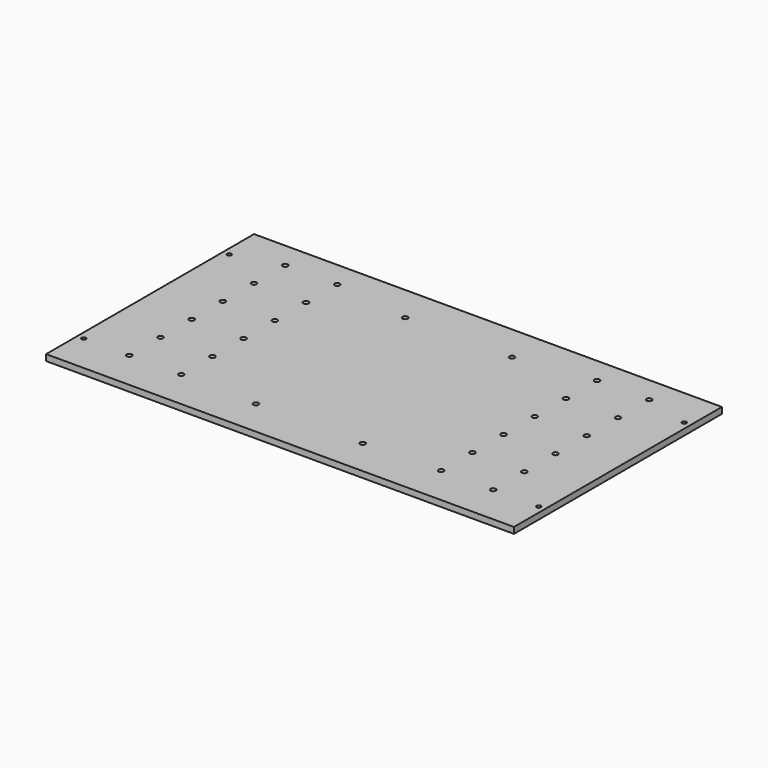
from build123d import *

# Parameters (mm, degrees)
F0_W     = 457.2
F0_H     = 254
F0_R     = 2.0701
F0_R_2   = 2.5527
F1_DEPTH = 6


with BuildPart() as f1:
    # F0 (on Top) → F1 (new body)
    with BuildSketch(Plane.XY):
        Rectangle(F0_W, F0_H)
        with Locations((-222.25, -88.9)):
            Circle(F0_R, mode=Mode.SUBTRACT)
        with Locations((-177.8, -88.9)):
            Circle(F0_R_2, mode=Mode.SUBTRACT)
        with Locations((-127, -88.9)):
            Circle(F0_R_2, mode=Mode.SUBTRACT)
        with Locations((-52.197, -91.1352)):
            Circle(F0_R_2, mode=Mode.SUBTRACT)
        with Locations((-177.8, -50.8)):
            Circle(F0_R_2, mode=Mode.SUBTRACT)
        with Locations((-127, -50.8)):
            Circle(F0_R_2, mode=Mode.SUBTRACT)
        with Locations((-177.8, -12.7)):
            Circle(F0_R_2, mode=Mode.SUBTRACT)
        with Locations((-127, -12.7)):
            Circle(F0_R_2, mode=Mode.SUBTRACT)
        with Locations((52.197, -91.1352)):
            Circle(F0_R_2, mode=Mode.SUBTRACT)
        with Locations((127, -88.9)):
            Circle(F0_R_2, mode=Mode.SUBTRACT)
        with Locations((177.8, -88.9)):
            Circle(F0_R_2, mode=Mode.SUBTRACT)
        with Locations((222.25, -88.9)):
            Circle(F0_R, mode=Mode.SUBTRACT)
        with Locations((127, -50.8)):
            Circle(F0_R_2, mode=Mode.SUBTRACT)
        with Locations((177.8, -50.8)):
            Circle(F0_R_2, mode=Mode.SUBTRACT)
        with Locations((127, -12.7)):
            Circle(F0_R_2, mode=Mode.SUBTRACT)
        with Locations((177.8, -12.7)):
            Circle(F0_R_2, mode=Mode.SUBTRACT)
        with Locations((-177.8, 25.4)):
            Circle(F0_R_2, mode=Mode.SUBTRACT)
        with Locations((-127, 25.4)):
            Circle(F0_R_2, mode=Mode.SUBTRACT)
        with Locations((-177.8, 63.5)):
            Circle(F0_R_2, mode=Mode.SUBTRACT)
        with Locations((-222.25, 88.9)):
            Circle(F0_R, mode=Mode.SUBTRACT)
        with Locations((-127, 63.5)):
            Circle(F0_R_2, mode=Mode.SUBTRACT)
        with Locations((-177.8, 101.6)):
            Circle(F0_R_2, mode=Mode.SUBTRACT)
        with Locations((-127, 101.6)):
            Circle(F0_R_2, mode=Mode.SUBTRACT)
        with Locations((-52.197, 91.1352)):
            Circle(F0_R_2, mode=Mode.SUBTRACT)
        with Locations((127, 25.4)):
            Circle(F0_R_2, mode=Mode.SUBTRACT)
        with Locations((177.8, 25.4)):
            Circle(F0_R_2, mode=Mode.SUBTRACT)
        with Locations((52.197, 91.1352)):
            Circle(F0_R_2, mode=Mode.SUBTRACT)
        with Locations((127, 63.5)):
            Circle(F0_R_2, mode=Mode.SUBTRACT)
        with Locations((177.8, 63.5)):
            Circle(F0_R_2, mode=Mode.SUBTRACT)
        with Locations((222.25, 88.9)):
            Circle(F0_R, mode=Mode.SUBTRACT)
        with Locations((127, 101.6)):
            Circle(F0_R_2, mode=Mode.SUBTRACT)
        with Locations((177.8, 101.6)):
            Circle(F0_R_2, mode=Mode.SUBTRACT)
    extrude(amount=F1_DEPTH)


solid = f1.part
